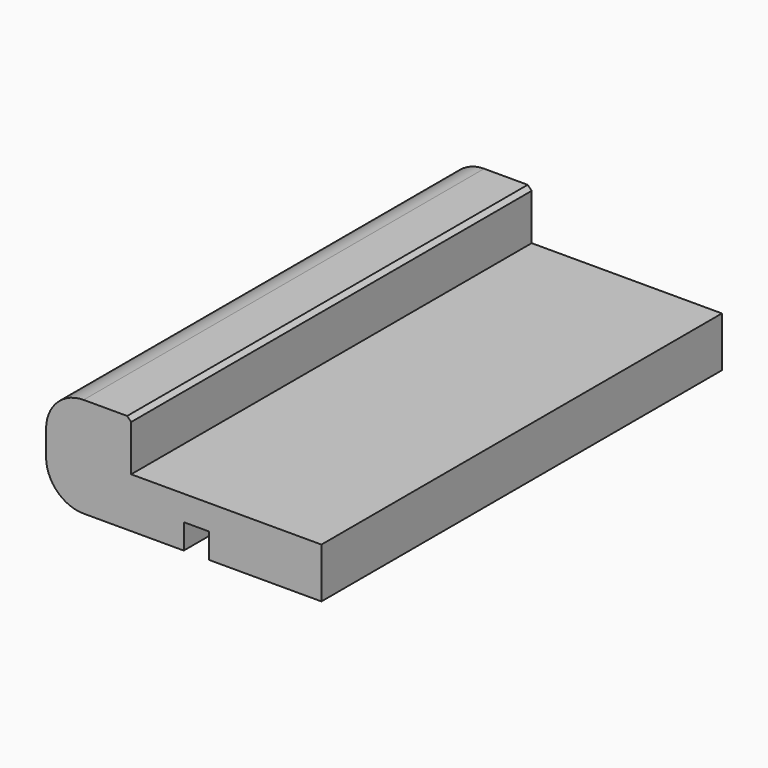
from build123d import *

# Parameters (mm, degrees)
F1_DEPTH = 63.5
F2_SIZE  = 0.508


with BuildPart() as f1:
    # F0 (on Front) → F1 (new body)
    with BuildSketch(Plane.XZ):
        with BuildLine():
            ThreePointArc((0, 4.7625), (1.3949039546, 1.3949039546), (4.7625, 0))
            Line((4.7625, 0), (17.4625, 0))
            Line((17.4625, 0), (17.4625, 3.175))
            Line((17.4625, 3.175), (20.6375, 3.175))
            Line((20.6375, 3.175), (20.6375, 0))
            Line((20.6375, 0), (34.925, 0))
            Line((34.925, 0), (34.925, 6.35))
            Line((34.925, 6.35), (10.795, 6.35))
            Line((10.795, 6.35), (10.795, 12.7))
            Line((10.795, 12.7), (4.7625, 12.7))
            ThreePointArc((4.7625, 12.7), (1.3949039546, 11.3050960454), (0, 7.9375))
            Line((0, 7.9375), (0, 4.7625))
        make_face()
    extrude(amount=F1_DEPTH)

    # F2
    f2_edges = [f1.edges().sort_by_distance(p)[0] for p in [
        (10.795, -31.75, 12.7),
    ]]
    chamfer(f2_edges, length=F2_SIZE)


solid = f1.part
